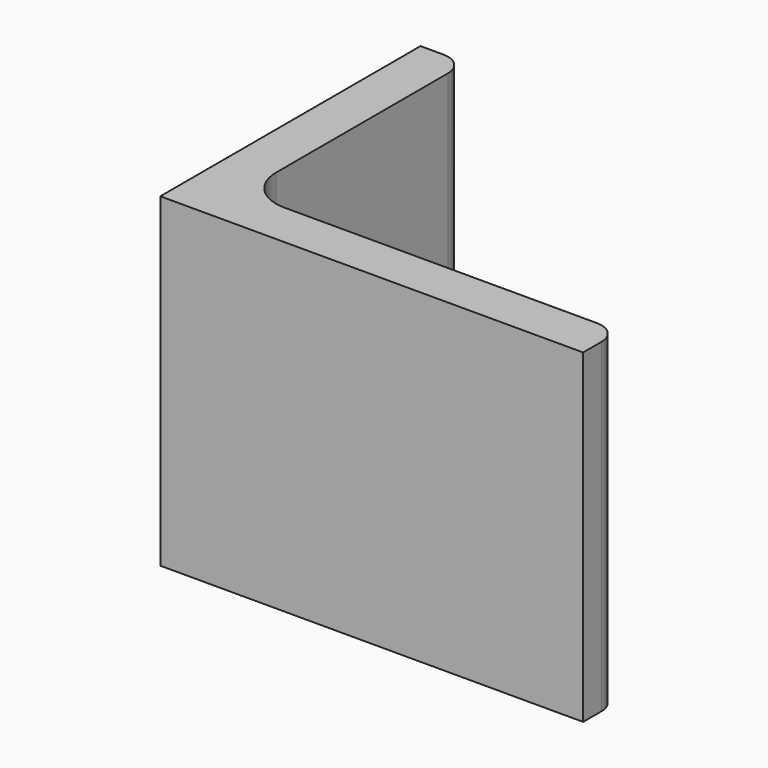
from build123d import *

# Parameters (mm, degrees)
EXTRUDE_DEPTH = 50


with BuildPart() as part:
    # Sketch → Extrude (new body)
    with BuildSketch(Plane.XY):
        with BuildLine():
            Line((0, 0), (65, 0))
            Line((65, 0), (65, 3.5))
            ThreePointArc((65, 3.5), (63.974874, 5.974874), (61.5, 7))
            Line((61.5, 7), (13.5, 7))
            ThreePointArc((7, 13.5), (8.903806, 8.903806), (13.5, 7))
            Line((7, 46.5), (7, 13.5))
            ThreePointArc((7, 46.5), (5.974874, 48.974874), (3.5, 50))
            Line((0, 50), (3.5, 50))
            Line((0, 0), (0, 50))
        make_face()
    extrude(amount=EXTRUDE_DEPTH)


solid = part.part
